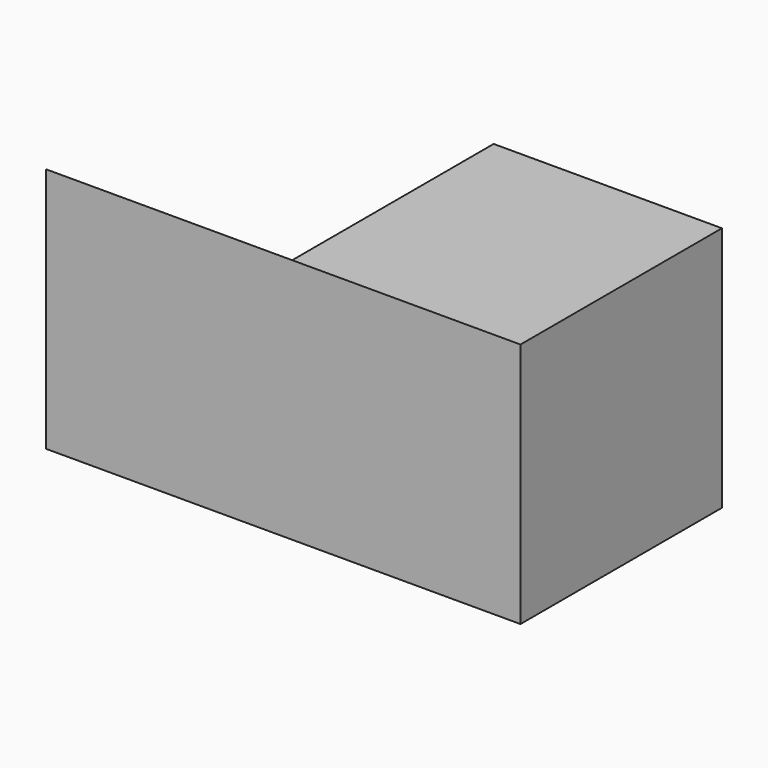
from build123d import *

# Parameters (mm, degrees)
F0_W     = 48.959892
F0_H     = 25.98865
F1_DEPTH = 25.4
F3_DEPTH = 25.4


with BuildPart() as f1:
    # F0 (on Top) → F1 (new body)
    with BuildSketch(Plane.XY):
        with Locations((24.479946, 12.994325)):
            Rectangle(F0_W, F0_H)
    extrude(amount=-F1_DEPTH)

    # F2 (on face) → F3 (cut)
    with BuildSketch(Plane(origin=(0, 0, 0), x_dir=(0, -1, 0), z_dir=(-1, 0, 0))):
        Polygon((-25.98865, -25.4), (0, 0), (-25.98865, 0), align=None)
    extrude(amount=-F3_DEPTH, mode=Mode.SUBTRACT)


solid = f1.part
